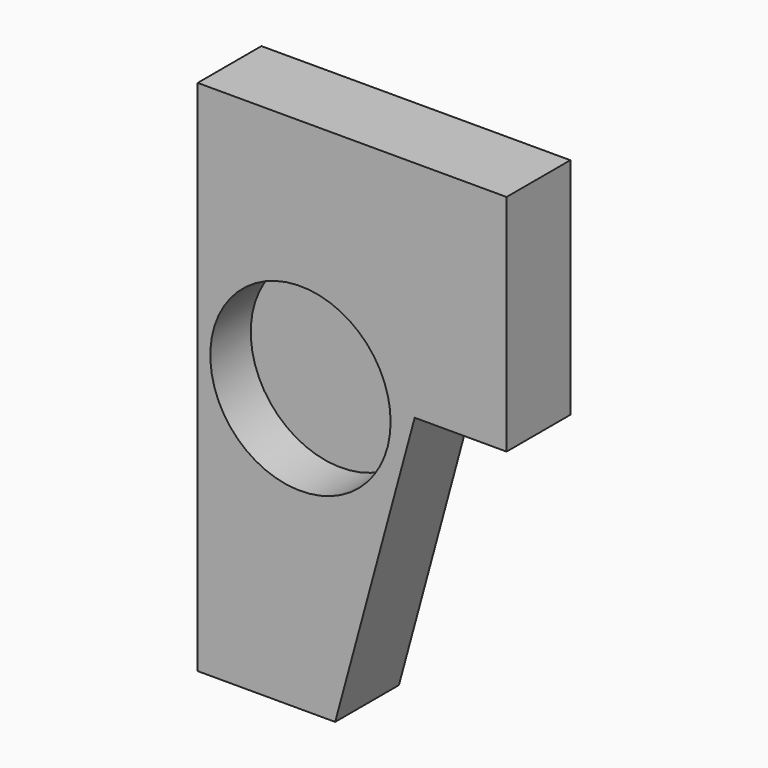
from build123d import *

# Parameters (mm, degrees)
F1_DEPTH = 15.759194
F2_R     = 17.831749
F3_DEPTH = 10


with BuildPart() as f1:
    # F0 (on Front) → F1 (new body)
    with BuildSketch(Plane.XZ):
        Polygon((0, -28.000414), (27.195573, -28.000414), (42.920023, 30.085534), (61.09336, 30.085534), (61.09336, 74.423328), (0, 74.423328), align=None)
    extrude(amount=F1_DEPTH)

    # F2 (on face) → F3 (cut)
    with BuildSketch(Plane.XZ.offset(15.759194)):
        with Locations((20.327643, 27.81529)):
            Circle(F2_R)
    extrude(amount=-F3_DEPTH, mode=Mode.SUBTRACT)


solid = f1.part
